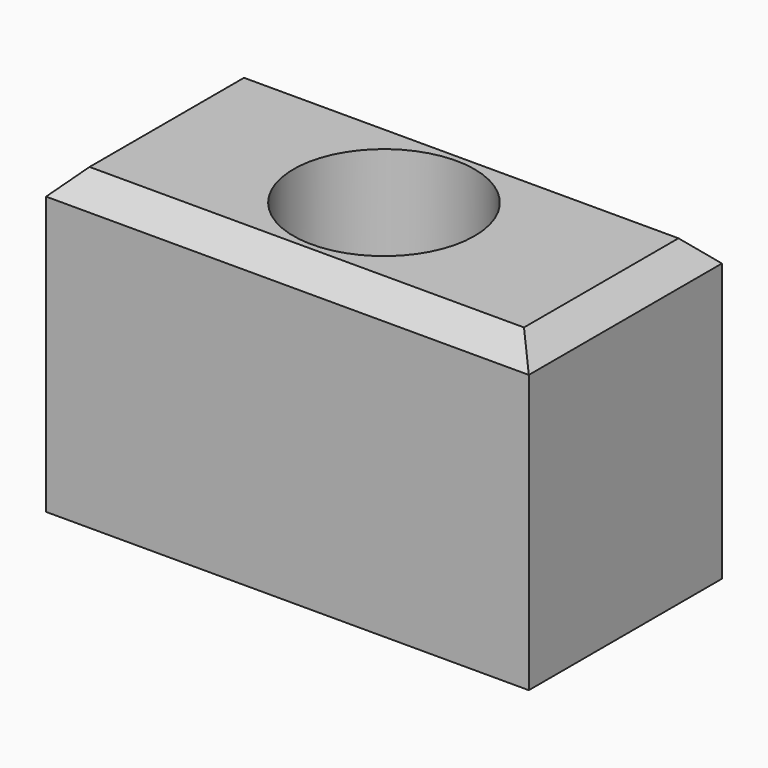
from build123d import *

# Parameters (mm, degrees)
F0_W     = 40
F0_H     = 20
F0_R     = 7.5
F1_DEPTH = 25
F2_SIZE  = 2


with BuildPart() as f1:
    # F0 (on Top) → F1 (new body)
    with BuildSketch(Plane.XY):
        with Locations((20, 10)):
            Rectangle(F0_W, F0_H)
        with Locations((20, 10)):
            Circle(F0_R, mode=Mode.SUBTRACT)
    extrude(amount=F1_DEPTH)

    # F2
    f2_edges = [f1.edges().sort_by_distance(p)[0] for p in [
        (20, 0, 25),
        (0, 10, 25),
        (20, 20, 25),
        (40, 10, 25),
    ]]
    chamfer(f2_edges, length=F2_SIZE)


solid = f1.part
